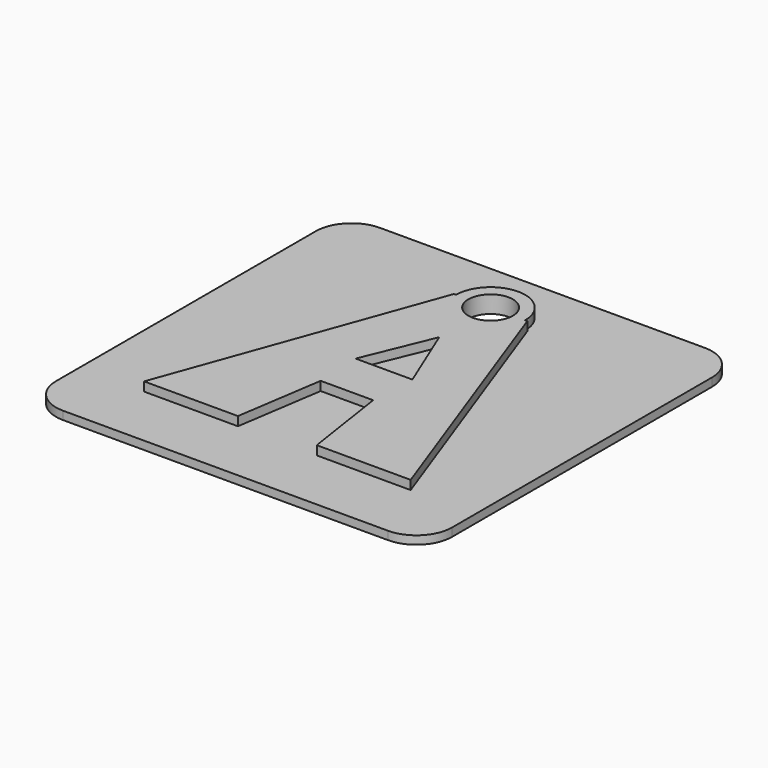
from build123d import *

# Parameters (mm, degrees)
F0_W     = 56.471486
F0_H     = 56.471486
F1_DEPTH = 1.1811
F0_R     = 3.175
F2_DEPTH = 2.4638
F3_R     = 5.08


with BuildPart() as f1:
    # F0 (on Top) → F1 (new body)
    with BuildSketch(Plane.XY):
        Rectangle(F0_W, F0_H)
        with BuildLine():
            Line((4.917035, 19.003581), (5.229957, 19.003581))
            Line((5.229957, 19.003581), (19.003581, -19.003581))
            Line((19.003581, -19.003581), (5.620397, -19.003581))
            Line((5.620397, -19.003581), (3.739397, -6.617126))
            Line((3.739397, -6.617126), (-3.739393, -6.617126))
            Line((-3.739393, -6.617126), (-5.620394, -19.003581))
            Line((-5.620394, -19.003581), (-19.003581, -19.003581))
            Line((-19.003581, -19.003581), (-5.229957, 19.003581))
            Line((-5.229957, 19.003581), (-4.917035, 19.003581))
            ThreePointArc((-4.917035, 19.003581), (0, 23.920617), (4.917035, 19.003581))
        make_face(mode=Mode.SUBTRACT)
        Polygon((0, 9.849461), (-4.047723, 0), (4.047723, 0), align=None)
    extrude(amount=F1_DEPTH)

    # F0 (on Top) → F2 (join)
    with BuildSketch(Plane.XY):
        with BuildLine():
            Line((19.003581, -19.003581), (5.229957, 19.003581))
            Line((5.229957, 19.003581), (4.917035, 19.003581))
            ThreePointArc((4.917035, 19.003581), (0, 23.920617), (-4.917035, 19.003581))
            Line((-4.917035, 19.003581), (-5.229957, 19.003581))
            Line((-5.229957, 19.003581), (-19.003581, -19.003581))
            Line((-19.003581, -19.003581), (-5.620394, -19.003581))
            Line((-5.620394, -19.003581), (-3.739393, -6.617126))
            Line((-3.739393, -6.617126), (3.739397, -6.617126))
            Line((3.739397, -6.617126), (5.620397, -19.003581))
            Line((5.620397, -19.003581), (19.003581, -19.003581))
        make_face()
        Polygon((4.047723, 0), (-4.047723, 0), (0, 9.849461), align=None, mode=Mode.SUBTRACT)
        with Locations((0, 19.003581)):
            Circle(F0_R, mode=Mode.SUBTRACT)
    extrude(amount=F2_DEPTH)

    # F3
    f3_edges = [f1.edges().sort_by_distance(p)[0] for p in [
        (28.235743, 28.235743, 0.59055),
        (-28.235743, 28.235743, 0.59055),
        (-28.235743, -28.235743, 0.59055),
        (28.235743, -28.235743, 0.59055),
    ]]
    fillet(f3_edges, radius=F3_R)


solid = f1.part
